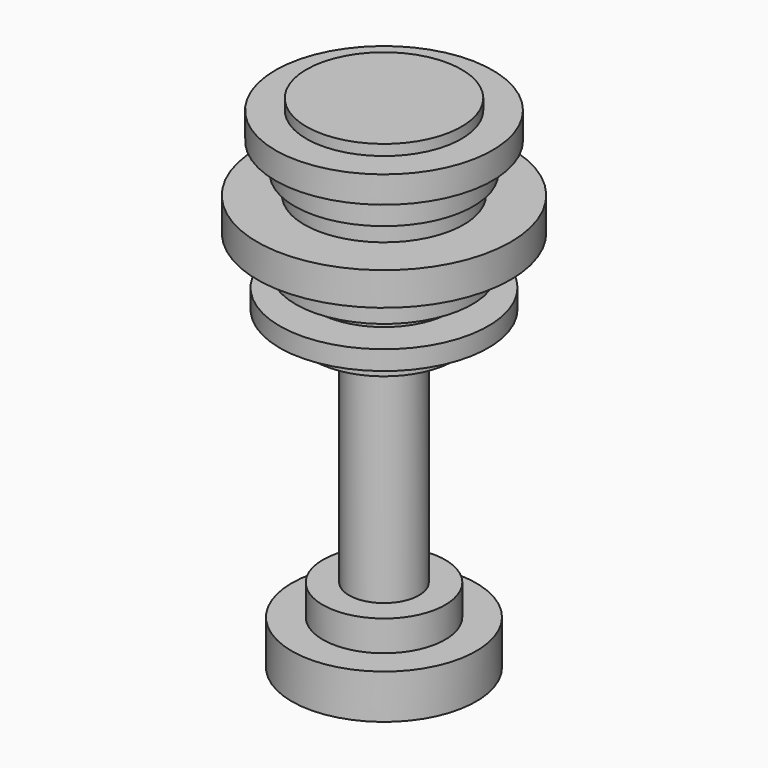
from build123d import *

# Parameters (mm, degrees)
F0_W   = 20.2822554857
F0_H   = 2.7975551784
F0_W_2 = 20.8417661488
F0_H_2 = 5.0355931744
F0_W_3 = 17.4847040325
F0_H_3 = 3.6368181463
F0_W_4 = 9.161984548
F0_H_4 = 56.984577328


with BuildPart() as f1:
    # F0 (on Front) → F1 (revolve)
    with BuildSketch(Plane.XZ):
        with Locations((-10.1411277428, 34.8295290023)):
            Rectangle(F0_W, F0_H)
        Polygon((0, 26.4368709177), (0, 33.4307514131), (-20.2822554857, 33.4307514131), (-28.3951573074, 33.4307514131), (-28.3951573074, 26.4368709177), (-23.3595632017, 26.4368709177), align=None)
        Polygon((0, 18.8834778965), (0, 26.4368709177), (-23.3595632017, 26.4368709177), (-23.3595632017, 18.8834778965), (-20.8417661488, 18.8834778965), align=None)
        with Locations((-10.4208830744, 16.3656813093)):
            Rectangle(F0_W_2, F0_H_2)
        Polygon((0, 5.1754722372), (0, 13.8478847221), (-20.8417661488, 13.8478847221), (-33.1509970129, 13.8478847221), (-33.1509970129, 5.1754722372), (-23.0798088014, 5.1754722372), align=None)
        Polygon((0, -3.7766958121), (0, 5.1754722372), (-23.0798088014, 5.1754722372), (-23.0798088014, -3.7766958121), (-17.4847040325, -3.7766958121), align=None)
        with Locations((-8.7423520163, -5.5951048853)):
            Rectangle(F0_W_3, F0_H_3)
        Polygon((0, -12.4491089955), (0, -7.4135139585), (-17.4847040325, -7.4135139585), (-27.2761359811, -7.4135139585), (-27.2761359811, -12.4491089955), (-18.3239690959, -12.4491089955), align=None)
        Polygon((0, -18.3239690959), (0, -12.4491089955), (-18.3239690959, -12.4491089955), (-18.3239690959, -18.3239690959), (-9.161984548, -18.3239690959), align=None)
        with Locations((-4.580992274, -46.8162577599)):
            Rectangle(F0_W_4, F0_H_4)
        Polygon((0, -83.3016037941), (0, -75.3085464239), (-9.161984548, -75.3085464239), (-16.0022098571, -75.3085464239), (-16.0022098571, -83.3016037941), align=None)
        Polygon((0, -94.8955789208), (0, -83.3016037941), (-16.0022098571, -83.3016037941), (-24.1157487035, -83.3016037941), (-24.1157487035, -94.8955789208), align=None)
    revolve(axis=Axis((0, 0, -46.8162577599), (0, 0, -1)))


solid = f1.part
